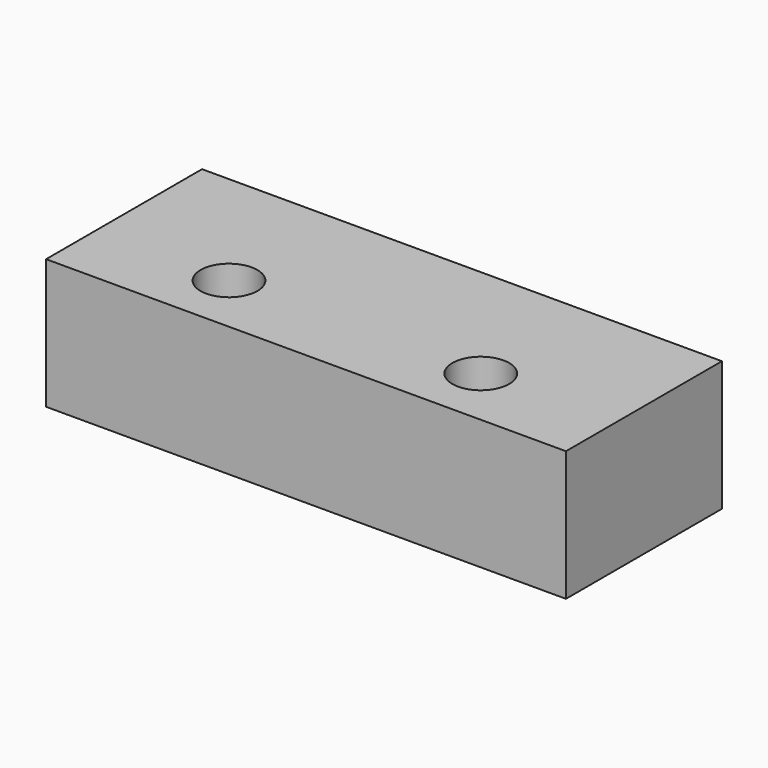
from build123d import *

# Parameters (mm, degrees)
F0_W           = 203.2
F0_H           = 76.2
F1_DEPTH       = 50.8
F3_D           = 13.4874
F3_CBORE_D     = 22.225
F3_CBORE_DEPTH = 38.1


with BuildPart() as f1:
    # F0 (on Top) → F1 (new body)
    with BuildSketch(Plane.XY):
        Rectangle(F0_W, F0_H)
    extrude(amount=F1_DEPTH)

    # F3 (through all)
    with Locations(Plane.XY.offset(50.8)):
        with Locations((-49.2125, -14.224), (49.2125, -14.224)):
            CounterBoreHole(F3_D / 2, F3_CBORE_D / 2, F3_CBORE_DEPTH)


solid = f1.part
